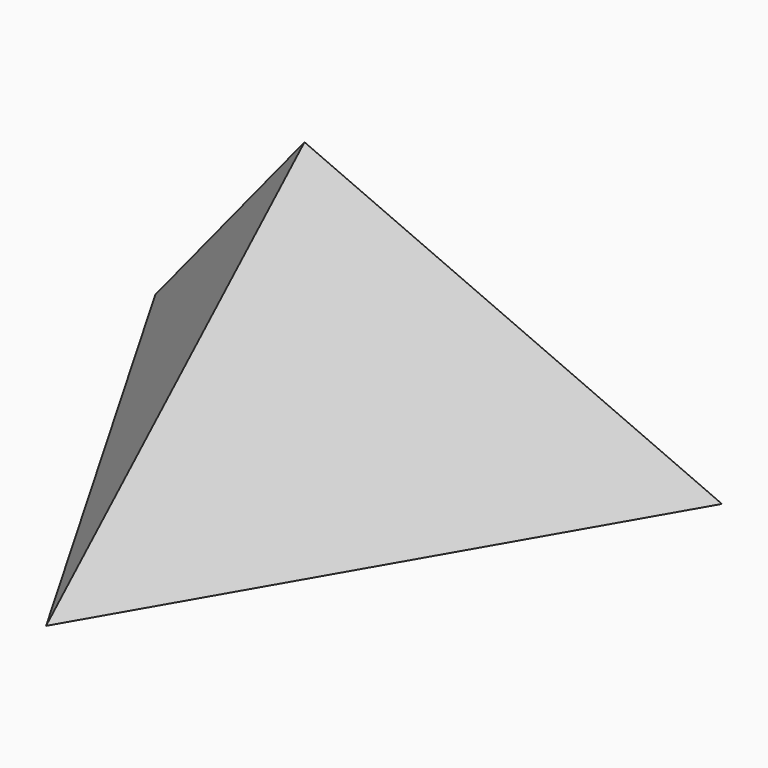
from build123d import *


with BuildPart() as f3:
    # F0 (on Top) → F3 section 0
    with BuildSketch(Plane.XY, mode=Mode.PRIVATE) as f3_s0:
        Polygon((-93.313449, 53.874545), (0, -107.74909), (93.313449, 53.874545), align=None)
    loft([f3_s0.sketch, Vertex(3.577411, -5.824492, 100)])


solid = f3.part
